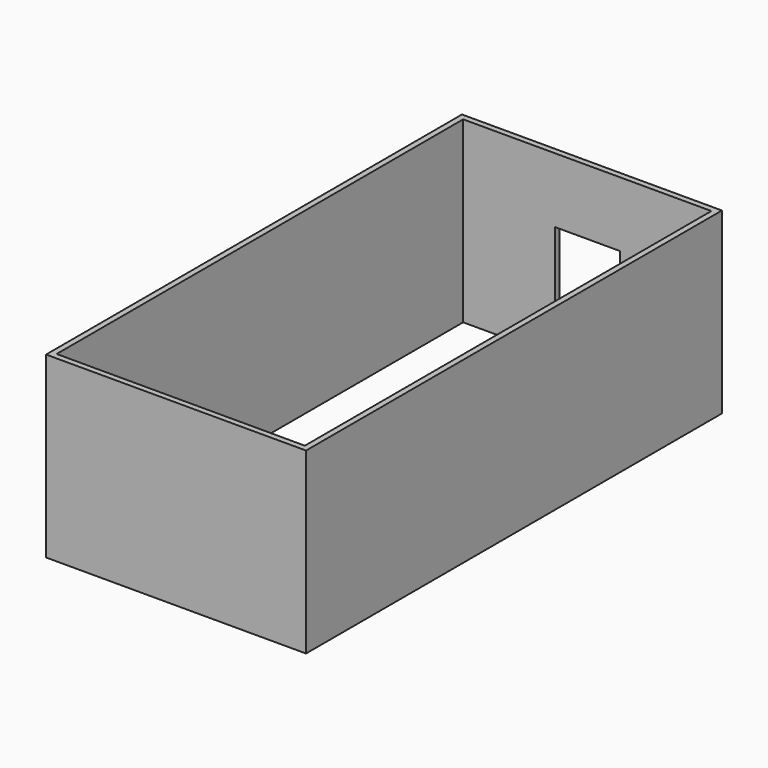
from build123d import *

# Parameters (mm, degrees)
F1_DEPTH = 160
F3_T     = -1.8
F4_DEPTH = 1.8


with BuildPart() as f1:
    # F0 (on Front) → F1 (new body)
    with BuildSketch(Plane.XZ):
        Polygon((-40, 0), (-40, -40), (-10, -40), (10, -40), (40, -40), (40, 15), (-40, 15), align=None)
    extrude(amount=F1_DEPTH)

    # F3
    f3_openings = [f1.faces().sort_by_distance(p)[0] for p in [
        (0, -80, 15),
        (0, -80, -40),
    ]]
    offset(amount=F3_T, openings=f3_openings)

    # F2 (on Front) → F4 (cut)
    with BuildSketch(Plane.XZ):
        Polygon((10, -5), (0, -5), (-10, -5), (-10, -40), (10, -40), align=None)
    extrude(amount=F4_DEPTH, mode=Mode.SUBTRACT)


solid = f1.part
